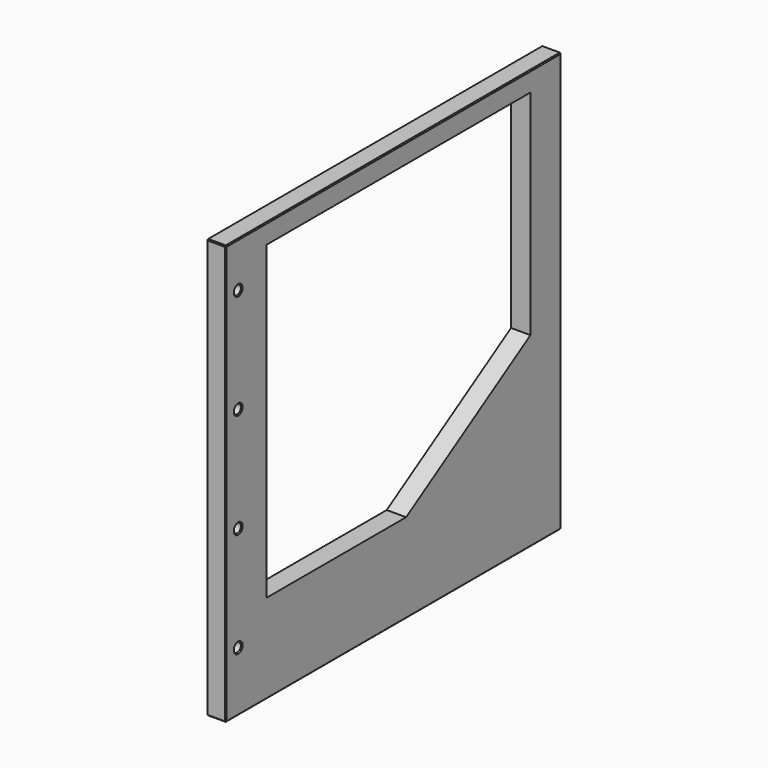
from build123d import *

# Parameters (mm, degrees)
SKETCH011_W     = 216
SKETCH011_H     = 216
PAD005_DEPTH    = 10
SKETCH014_R     = 2.35
POCKET008_DEPTH = 11
SKETCH015_R     = 3.75
POCKET009_DEPTH = 5
CHAMFER001_SIZE = 0.5
POCKET010_DEPTH = 10


with BuildPart() as part:
    # Sketch011 → Pad005 (new body)
    with BuildSketch(Plane.YZ):
        with Locations((92, -108)):
            Rectangle(SKETCH011_W, SKETCH011_H)
    extrude(amount=-PAD005_DEPTH)

    # Sketch014 (on Face6 of Pad005) → Pocket008 (cut)
    with BuildSketch(Plane(origin=(-10, 0, 0), x_dir=(0, 1, 0), z_dir=(-1, 0, 0))):
        with Locations((-8.060639, 185.203074)):
            Circle(SKETCH014_R)
        with Locations((-8.060639, 131.203074)):
            Circle(SKETCH014_R)
        with Locations((-8.060639, 77.203074)):
            Circle(SKETCH014_R)
        with Locations((-8.060639, 23.203074)):
            Circle(SKETCH014_R)
    extrude(amount=-POCKET008_DEPTH, mode=Mode.SUBTRACT)

    # Sketch015 (on Face5 of Pocket008) → Pocket009 (cut)
    with BuildSketch(Plane(origin=(-10, 0, 0), x_dir=(0, 1, 0), z_dir=(-1, 0, 0))):
        with Locations((-8.071904, 23.147722)):
            Circle(SKETCH015_R)
        with Locations((-8.071904, 77.147722)):
            Circle(SKETCH015_R)
        with Locations((-8.071904, 131.147722)):
            Circle(SKETCH015_R)
        with Locations((-8.071904, 185.147722)):
            Circle(SKETCH015_R)
    extrude(amount=-POCKET009_DEPTH, mode=Mode.SUBTRACT)

    # Chamfer001
    chamfer001_edges = [part.edges().sort_by_distance(p)[0] for p in [
        (-5, -16, 0),
        (-5, -16, -216),
        (0, -16, -108),
        (-10, -16, -108),
        (-5, 200, 0),
        (0, 92, 0),
        (-10, 92, 0),
        (-5, 200, -216),
        (0, 92, -216),
        (-10, 92, -216),
        (0, 200, -108),
        (0, -10.410639, -185.203074),
        (0, -10.410639, -131.203074),
        (0, -10.410639, -77.203074),
        (0, -10.410639, -23.203074),
        (-10, 200, -108),
        (-10, -11.821904, -23.147722),
        (-10, -11.821904, -185.147722),
        (-10, -11.821904, -131.147722),
        (-10, -11.821904, -77.147722),
        (-5, -10.410639, -185.203074),
        (-2.5, -5.710639, -185.203074),
        (-5, -10.410639, -131.203074),
        (-2.5, -5.710639, -131.203074),
        (-5, -10.410639, -77.203074),
        (-2.5, -5.710639, -77.203074),
        (-5, -10.410639, -23.203074),
        (-2.5, -5.710639, -23.203074),
        (-7.5, -4.321904, -23.147722),
        (-5, -11.821904, -23.147722),
        (-7.5, -4.321904, -185.147722),
        (-5, -11.821904, -185.147722),
        (-7.5, -4.321904, -131.147722),
        (-5, -11.821904, -131.147722),
        (-7.5, -4.321904, -77.147722),
        (-5, -11.821904, -77.147722),
    ]]
    chamfer(chamfer001_edges, length=CHAMFER001_SIZE)

    # Sketch016 (on Face11 of Chamfer001) → Pocket010 (cut)
    with BuildSketch(Plane(origin=(-10, 0, 0), x_dir=(0, 1, 0), z_dir=(-1, 0, 0))):
        Polygon((180, 10), (10, 10), (10, 170), (100, 170), (180, 120), align=None)
    extrude(amount=-POCKET010_DEPTH, mode=Mode.SUBTRACT)


solid = part.part
